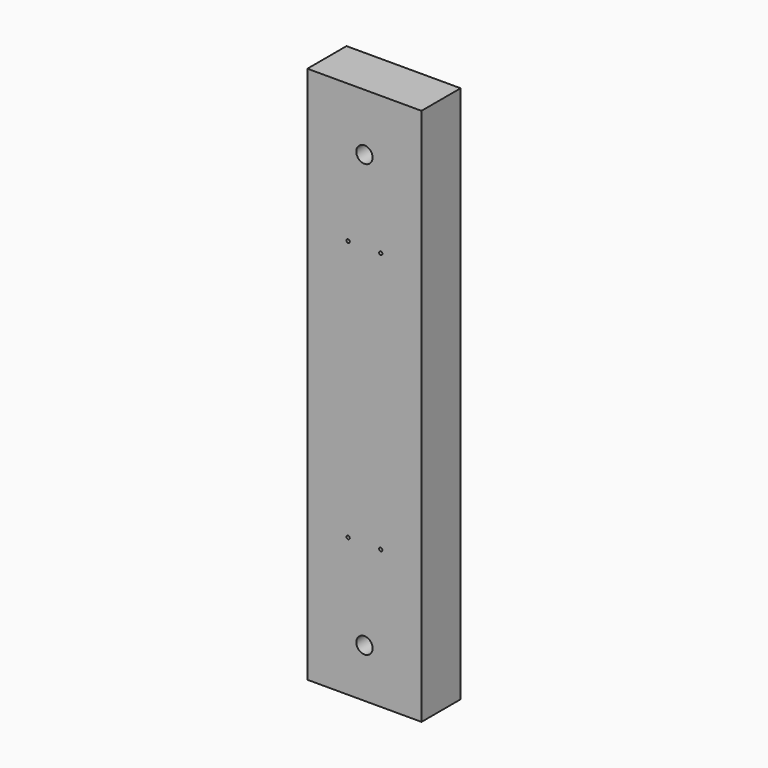
from build123d import *

# Parameters (mm, degrees)
SKETCH001_AS_DRAWN_R                 = 6.35
SKETCH001_AS_DRAWN_R_2               = 1.27
EXTRUDE001_DEPTH                     = 76.2
EXTRUDE001_ONTO_SKETCH001_ROLL_ANGLE = 90
SKETCH_W                             = 88.9
SKETCH_H                             = 38.1
EXTRUDE_DEPTH                        = 419.1


with BuildPart() as extrude001:
    # Sketch001 as drawn → Extrude001 (new)
    with BuildSketch(Plane.XY):
        with Locations((44.45, 374.65)):
            Circle(SKETCH001_AS_DRAWN_R)
        with Locations((44.45, 38.1)):
            Circle(SKETCH001_AS_DRAWN_R)
        with Locations((31.75, 311.15)):
            Circle(SKETCH001_AS_DRAWN_R_2)
        with Locations((57.15, 311.15)):
            Circle(SKETCH001_AS_DRAWN_R_2)
        with Locations((31.75, 107.95)):
            Circle(SKETCH001_AS_DRAWN_R_2)
        with Locations((57.15, 107.95)):
            Circle(SKETCH001_AS_DRAWN_R_2)
    extrude(amount=-EXTRUDE001_DEPTH)


with BuildPart() as extrude001_1:
    # Extrude001 onto Sketch001 roll: moved
    add(extrude001.part.rotate(Axis((0, 0, 0), (1, 0, 0)), EXTRUDE001_ONTO_SKETCH001_ROLL_ANGLE))


with BuildPart() as extrude001_2:
    # Extrude001 onto Sketch001 placement: moved
    add(extrude001_1.part)


with BuildPart() as cut:
    # Sketch → Extrude (new body)
    with BuildSketch(Plane.XY):
        with Locations((44.45, 19.05)):
            Rectangle(SKETCH_W, SKETCH_H)
    extrude(amount=EXTRUDE_DEPTH)

    # Cut: cut Extrude001
    add(extrude001_2.part, mode=Mode.SUBTRACT)


solid = cut.part
